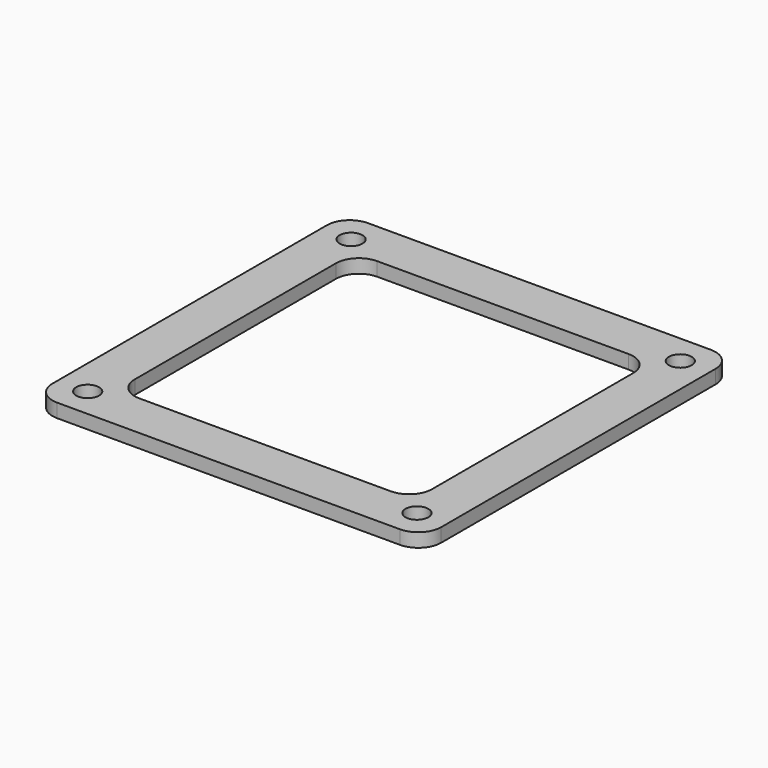
from build123d import *

# Parameters (mm, degrees)
F1_DEPTH = 3
F2_R     = 2.5
F3_DEPTH = 3.001


with BuildPart() as f1:
    # F0 (on Top) → F1 (new body)
    with BuildSketch(Plane.XY):
        with BuildLine():
            ThreePointArc((0, 5), (1.464466, 1.464466), (5, 0))
            Line((5, 0), (80, 0))
            ThreePointArc((80, 0), (83.535534, 1.464466), (85, 5))
            Line((85, 5), (85, 80))
            ThreePointArc((85, 80), (83.535534, 83.535534), (80, 85))
            Line((80, 85), (5, 85))
            ThreePointArc((5, 85), (1.464466, 83.535534), (0, 80))
            Line((0, 80), (0, 5))
        make_face()
    extrude(amount=F1_DEPTH)

    # F2 (on face) → F3 (cut, through all)
    with BuildSketch(Plane.XY.offset(3)):
        with Locations((6.5, 6.5)):
            Circle(F2_R)
        with Locations((6.5, 78.5)):
            Circle(F2_R)
        with Locations((78.5, 6.5)):
            Circle(F2_R)
        with Locations((78.5, 78.5)):
            Circle(F2_R)
        with BuildLine():
            Line((70, 75), (15, 75))
            ThreePointArc((15, 75), (11.464466, 73.535534), (10, 70))
            Line((10, 70), (10, 15))
            ThreePointArc((10, 15), (11.464466, 11.464466), (15, 10))
            Line((15, 10), (70, 10))
            ThreePointArc((70, 10), (73.535534, 11.464466), (75, 15))
            Line((75, 15), (75, 70))
            ThreePointArc((75, 70), (73.535534, 73.535534), (70, 75))
        make_face()
    extrude(amount=-F3_DEPTH, mode=Mode.SUBTRACT)


solid = f1.part
